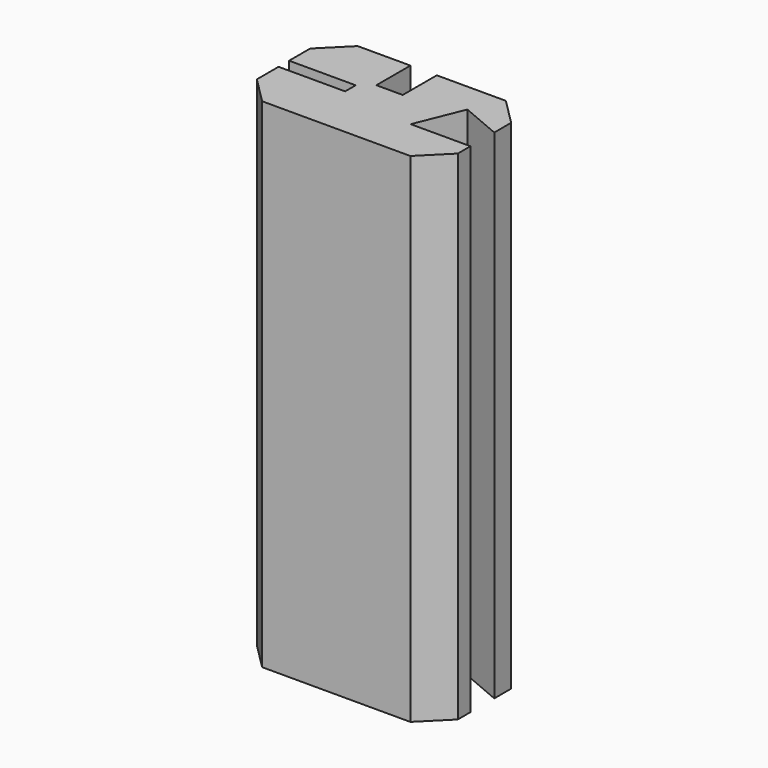
from build123d import *

# Parameters (mm, degrees)
F1_DEPTH = 377.9


with BuildPart() as f1:
    # F0 (on Top) → F1 (new body)
    with BuildSketch(Plane.XY):
        Polygon((-64.731188, -35.282262), (-44.720066, -55.293384), (67.679934, -55.293384), (87.691056, -35.282262), (87.691056, -23.282262), (42.391056, -23.282262), (56.81341, 12.414317), (87.691056, -0.692466), (87.691056, 15.307534), (67.679934, 35.318655), (15.279934, 35.318655), (15.279934, 3.018655), (-4.720066, 3.018655), (-4.720066, 35.318655), (-44.720066, 35.318655), (-64.731188, 15.307534), (-64.731188, -4.692466), (-14.231188, -4.692466), (-14.231188, -14.692466), (-64.731188, -14.692466), (-64.731188, -15.282262), align=None)
    extrude(amount=F1_DEPTH)


solid = f1.part
